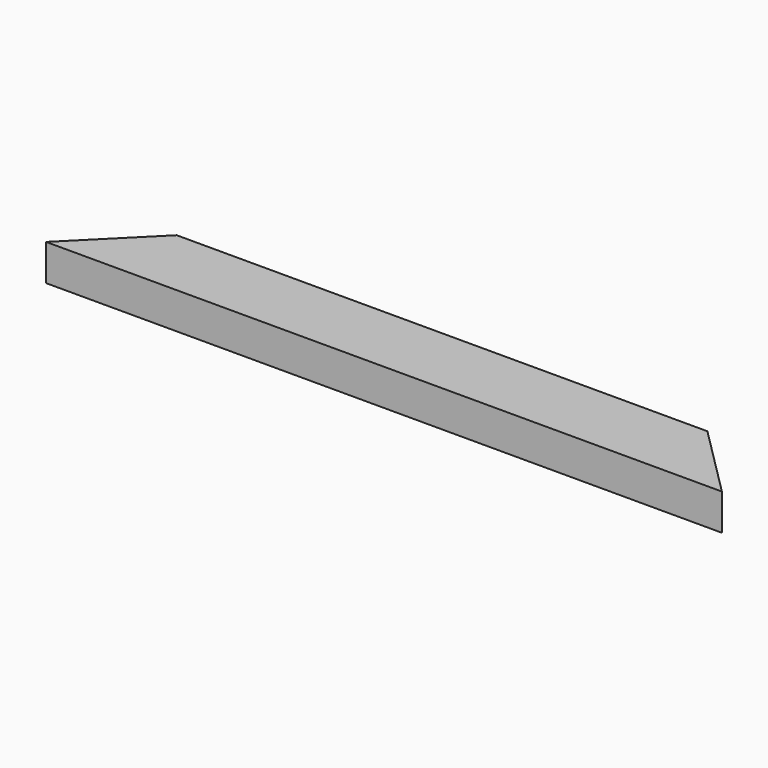
from build123d import *

# Parameters (mm, degrees)
F0_W     = 38.1
F0_H     = 19.05
F1_DEPTH = 177.8
F4_DEPTH = 50.8
F6_DEPTH = 50.8


with BuildPart() as f1:
    # F0 (on Right) → F1 (new body, symmetric)
    with BuildSketch(Plane.YZ):
        Rectangle(F0_W, F0_H)
    extrude(amount=F1_DEPTH, both=True)

    # F3 (on face) → F4 (cut)
    with BuildSketch(Plane.XY.offset(9.525)):
        Polygon((-177.8, 19.05), (-177.8, -19.0363529205), (-139.7136470795, 19.05), align=None)
    extrude(amount=-F4_DEPTH, mode=Mode.SUBTRACT)

    # F5 (on face) → F6 (cut)
    with BuildSketch(Plane.XY.offset(9.525)):
        Polygon((138.9227120697, 19.05), (177.0227120697, -19.05), (177.8, -19.05), (177.8, 19.05), align=None)
    extrude(amount=-F6_DEPTH, mode=Mode.SUBTRACT)


solid = f1.part
